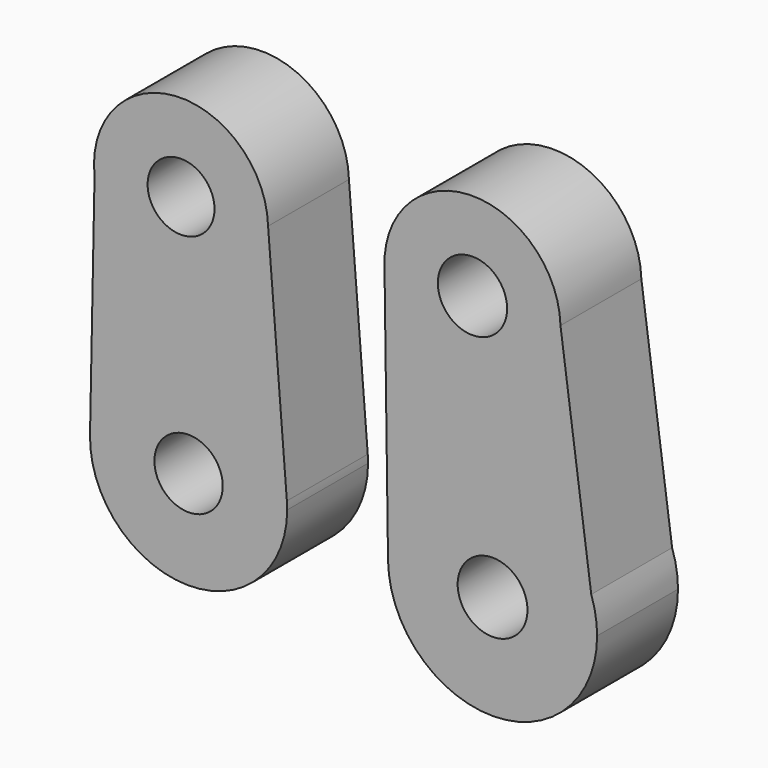
from build123d import *

# Parameters (mm, degrees)
F0_R     = 8.569686
F0_R_2   = 8.6314
F0_R_3   = 8.271717
F0_R_4   = 8.449602
F1_DEPTH = 25


with BuildPart() as f1:
    # F0 (on Front) → F1 (new body)
    with BuildSketch(Plane.XZ):
        with BuildLine():
            ThreePointArc((15.679014, 26.094305), (37.899702, 5.257231), (59.207823, 27.026627))
            ThreePointArc((59.207823, 27.026627), (59.205698, 27.330828), (59.199324, 27.63497))
            ThreePointArc((59.199324, 27.63497), (36.663081, 48.787385), (15.679014, 26.094305))
        make_face()
        with Locations((37.433434, 27.026627)):
            Circle(F0_R, mode=Mode.SUBTRACT)
        with BuildLine():
            ThreePointArc((59.199324, 27.63497), (59.205698, 27.330828), (59.207823, 27.026627))
            ThreePointArc((59.207823, 27.026627), (37.899702, 5.257231), (15.679014, 26.094305))
            Line((15.679014, 26.094305), (16.549375, -37.3223))
            ThreePointArc((16.549375, -37.3223), (37.897302, -11.506299), (66.809392, -28.426433))
            Line((66.809392, -28.426433), (59.199324, 27.63497))
        make_face()
        with BuildLine():
            ThreePointArc((68.260757, -36.96746), (67.895333, -32.635728), (66.809392, -28.426433))
            ThreePointArc((66.809392, -28.426433), (37.897302, -11.506299), (16.549375, -37.3223))
            ThreePointArc((16.549375, -37.3223), (42.581272, -62.82376), (68.260757, -36.96746))
        make_face()
        with Locations((42.403848, -36.96746)):
            Circle(F0_R_2, mode=Mode.SUBTRACT)
        with BuildLine():
            ThreePointArc((-56.030545, 22.724244), (-33.416373, 3.665887), (-13.106084, 25.162721))
            ThreePointArc((-13.106084, 25.162721), (-13.108159, 25.461624), (-13.114383, 25.76047))
            ThreePointArc((-13.114383, 25.76047), (-36.157087, 46.640531), (-56.030545, 22.724244))
        make_face()
        with Locations((-34.637578, 25.162721)):
            Circle(F0_R_3, mode=Mode.SUBTRACT)
        with BuildLine():
            ThreePointArc((-13.114383, 25.76047), (-13.108159, 25.461624), (-13.106084, 25.162721))
            ThreePointArc((-13.106084, 25.162721), (-33.416373, 3.665887), (-56.030545, 22.724244))
            Line((-56.030545, 22.724244), (-57.1512, -34.000512))
            ThreePointArc((-57.1512, -34.000512), (-33.501376, -10.109417), (-8.465837, -32.54422))
            Line((-8.465837, -32.54422), (-13.114383, 25.76047))
        make_face()
        with BuildLine():
            ThreePointArc((-8.388705, -34.482141), (-8.407996, -33.512413), (-8.465837, -32.54422))
            ThreePointArc((-8.465837, -32.54422), (-33.501376, -10.109417), (-57.1512, -34.000512))
            ThreePointArc((-57.1512, -34.000512), (-33.013157, -58.864578), (-8.388705, -34.482141))
        make_face()
        with Locations((-32.772331, -34.482141)):
            Circle(F0_R_4, mode=Mode.SUBTRACT)
    extrude(amount=F1_DEPTH)


solid = f1.part
